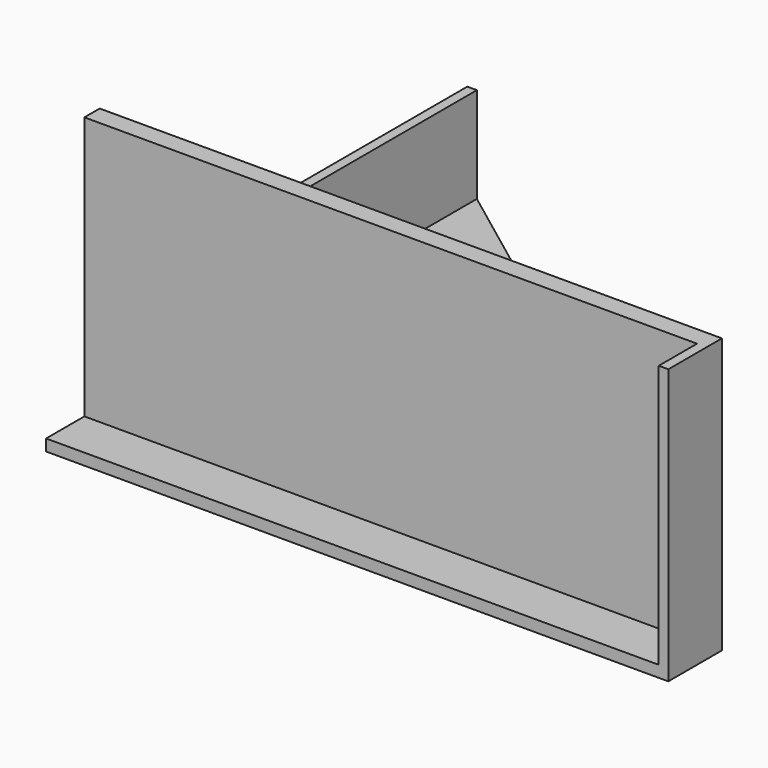
from build123d import *

# Parameters (mm, degrees)
PAD002_DEPTH = 2.4
PAD003_DEPTH = 20
PAD004_DEPTH = 35


with BuildPart() as part:
    # Sketch007 → Pad002 (new body)
    with BuildSketch(Plane.XY):
        Polygon((0, 55), (0, -55), (130, -55), (130, -41), (2, 55), align=None)
        Polygon((14, 31), (14, -29), (94, -29), align=None, mode=Mode.SUBTRACT)
    extrude(amount=PAD002_DEPTH)

    # Sketch008 → Pad003 (join)
    with BuildSketch(Plane.XY.offset(2.4)):
        Polygon((2, 55), (0, 55), (0, -45), (128, -45), (128, -55), (130, -55), (130, -41), (2, -41), align=None)
    extrude(amount=PAD003_DEPTH)

    # Sketch009 → Pad004 (join)
    with BuildSketch(Plane.XY.offset(22.4)):
        Polygon((0, -45), (128, -45), (128, -55), (130, -55), (130, -41), (0, -41), align=None)
    extrude(amount=PAD004_DEPTH)


solid = part.part
